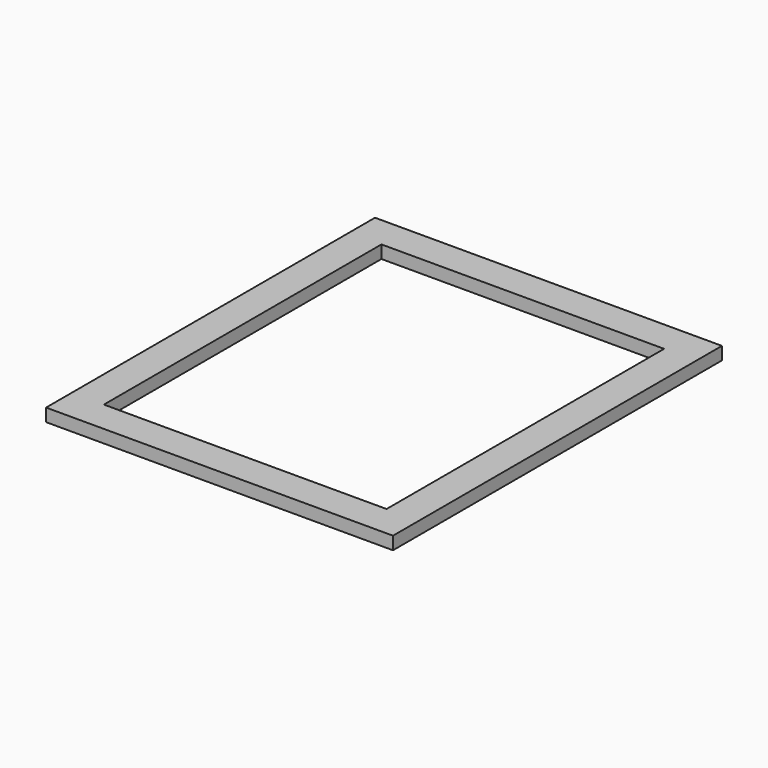
from build123d import *

# Parameters (mm, degrees)
SKETCH_W   = 54
SKETCH_H   = 64
SKETCH_W_2 = 44
SKETCH_H_2 = 54
PAD_DEPTH  = 2


with BuildPart() as part:
    # Sketch → Pad (new body)
    with BuildSketch(Plane.XY):
        with Locations((27, 32)):
            Rectangle(SKETCH_W, SKETCH_H)
        with Locations((27, 32)):
            Rectangle(SKETCH_W_2, SKETCH_H_2, mode=Mode.SUBTRACT)
    extrude(amount=PAD_DEPTH)


solid = part.part
